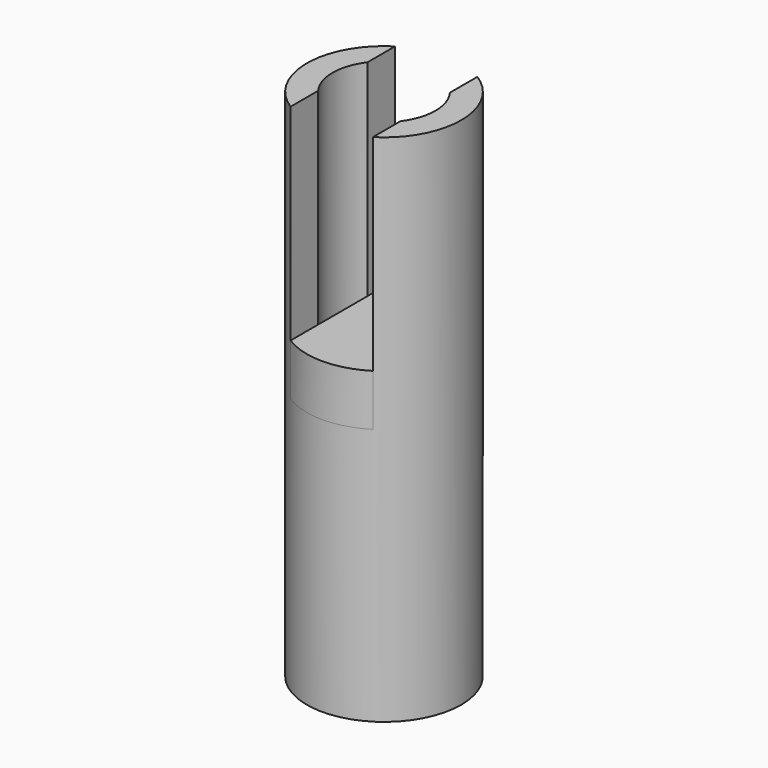
from build123d import *

# Parameters (mm, degrees)
F0_R     = 1.905
F0_R_2   = 1.27
F1_DEPTH = 12.7
F2_W     = 2.032
F2_H     = 13.7110514179
F3_DEPTH = 12.7
F5_DEPTH = 1.27


with BuildPart() as f1:
    # F0 (on Top) → F1 (new body)
    with BuildSketch(Plane.XY):
        Circle(F0_R)
        Circle(F0_R_2, mode=Mode.SUBTRACT)
    extrude(amount=F1_DEPTH)

    # F2 (on Front) → F3 (cut, symmetric)
    with BuildSketch(Plane.XZ):
        with Locations((0, 13.2055257089)):
            Rectangle(F2_W, F2_H)
    extrude(amount=F3_DEPTH, both=True, mode=Mode.SUBTRACT)

    # F4 (on face) → F5 (join)
    with BuildSketch(Plane.XY.offset(6.35)):
        with BuildLine():
            Line((-1.016, 1.6114493476), (-1.016, -1.6114493476))
            ThreePointArc((-1.016, -1.6114493476), (0, -1.905), (1.016, -1.6114493476))
            Line((1.016, -1.6114493476), (1.016, 1.6114493476))
            ThreePointArc((1.016, 1.6114493476), (0, 1.905), (-1.016, 1.6114493476))
        make_face()
    extrude(amount=F5_DEPTH)


solid = f1.part
